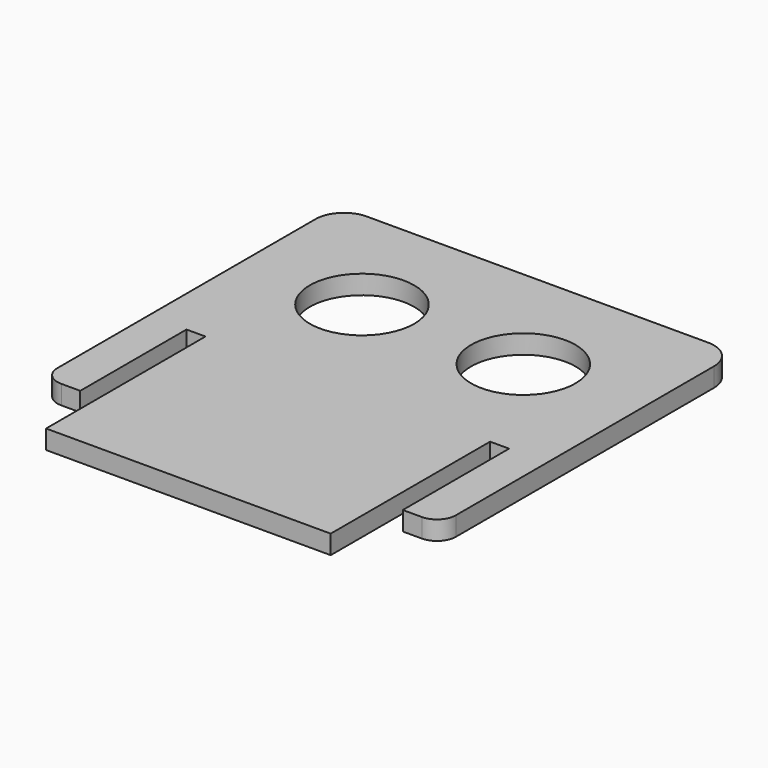
from build123d import *

# Parameters (mm, degrees)
F0_R     = 5.5
F1_DEPTH = 2


with BuildPart() as f1:
    # F0 (on Top) → F1 (new body)
    with BuildSketch(Plane.XY):
        with BuildLine():
            Line((15, 23), (-15, 23))
            Line((-15, 23), (-18, 23))
            ThreePointArc((-18, 23), (-20.12132, 22.12132), (-21, 20))
            Line((-21, 20), (-21, -14))
            ThreePointArc((-21, -14), (-20.414214, -15.414214), (-19, -16))
            Line((-19, -16), (-17, -16))
            Line((-17, -16), (-17, -2))
            Line((-17, -2), (-15, -2))
            Line((-15, -2), (-15, -23))
            Line((-15, -23), (15, -23))
            Line((15, -23), (15, -2))
            Line((15, -2), (17, -2))
            Line((17, -2), (17, -16))
            Line((17, -16), (19, -16))
            ThreePointArc((19, -16), (20.414214, -15.414214), (21, -14))
            Line((21, -14), (21, 20))
            ThreePointArc((21, 20), (20.12132, 22.12132), (18, 23))
            Line((18, 23), (15, 23))
        make_face()
        with Locations((-8.5, 10.5)):
            Circle(F0_R, mode=Mode.SUBTRACT)
        with Locations((8.5, 10.5)):
            Circle(F0_R, mode=Mode.SUBTRACT)
    extrude(amount=F1_DEPTH)


solid = f1.part
